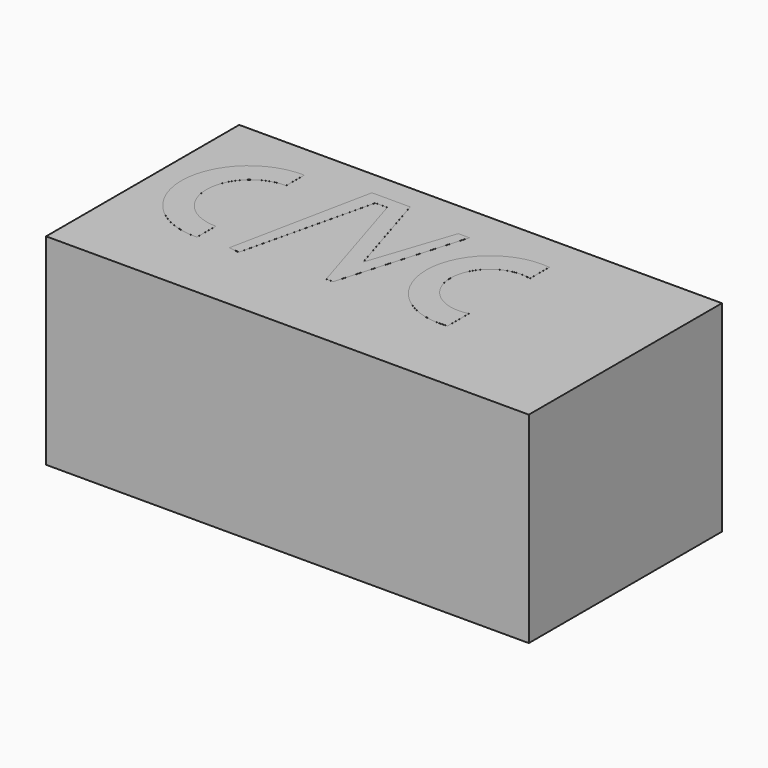
from build123d import *

# Parameters (mm, degrees)
F0_W     = 2438.4
F0_H     = 1219.2
F1_DEPTH = 1016
F3_DEPTH = 0.254


with BuildPart() as f1:
    # F0 (on Top) → F1 (new body)
    with BuildSketch(Plane.XY):
        Rectangle(F0_W, F0_H)
    extrude(amount=F1_DEPTH)

    # F2 (on face) → F3 (join)
    with BuildSketch(Plane.XY.offset(1016)):
        with BuildLine():
            Line((-750.391662, 320.040017), (-750.391662, 434.437275))
            ThreePointArc((-750.391662, 434.437275), (-1099.165018, 95.331065), (-750.391662, -243.775144))
            Line((-750.391662, -243.775144), (-750.391662, -123.930387))
            ThreePointArc((-750.391662, -123.930387), (-974.646189, 98.054815), (-750.391662, 320.040017))
        make_face()
        Polygon((-593.604756, -234.014689), (-540.663302, -241.051421), (-382.686138, 423.542291), (-322.392195, 423.542291), (-128.046423, -204.584762), (-92.811242, -204.584762), (92.504166, 423.542291), (36.172967, 423.542291), (-104.970291, 0), (-254.538697, 483.406254), (-447.794408, 483.406254), align=None)
        with BuildLine():
            Line((495.935023, 301.521927), (495.935023, 423.542291))
            ThreePointArc((495.935023, 423.542291), (131.703868, 102.525033), (495.935023, -218.492225))
            Line((495.935023, -218.492225), (495.935023, -83.673745))
            ThreePointArc((495.935023, -83.673745), (249.372388, 108.924091), (495.935023, 301.521927))
        make_face()
    extrude(amount=F3_DEPTH)


solid = f1.part
